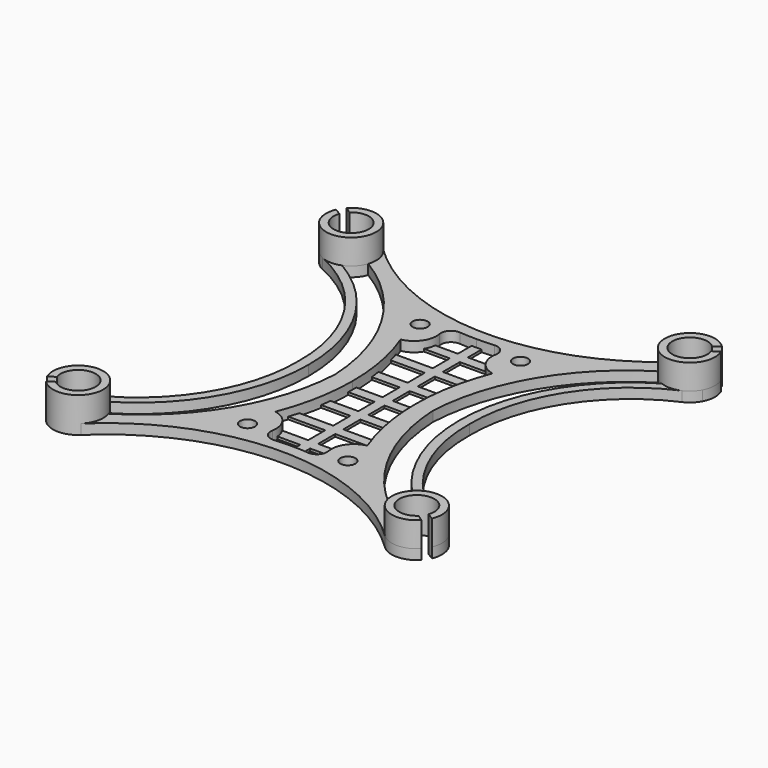
from build123d import *

# Parameters (mm, degrees)
F0_R     = 1.5
F1_DEPTH = 2
F3_DEPTH = 5
F5_DEPTH = 0.5


with BuildPart() as f1:
    # F0 (on Top) → F1 (new body)
    with BuildSketch(Plane.XY):
        with BuildLine():
            ThreePointArc((36.1362213462, -36.559940375), (30.8200680226, -32.0821443671), (37.0405652253, -35.1833631273))
            Line((37.0405652253, -35.1833631273), (38.335108699, -35.9872074577))
            ThreePointArc((38.335108699, -35.9872074577), (38.7399294875, -33.7723085628), (38.131906865, -31.6043681864))
            ThreePointArc((38.131906865, -31.6043681864), (37.1348906898, -30.3281930177), (35.7822836141, -29.4376210591))
            ThreePointArc((35.7822836141, -29.4376210591), (21.9787080555, -17.5374691672), (17.0199291271, 0))
            ThreePointArc((17.0199291271, 0), (21.9787080555, 17.5374691672), (35.7822836141, 29.4376210591))
            ThreePointArc((35.7822836141, 29.4376210591), (37.1348906898, 30.3281930177), (38.131906865, 31.6043681864))
            ThreePointArc((38.131906865, 31.6043681864), (38.7399294875, 33.7723085628), (38.335108699, 35.9872074577))
            Line((38.335108699, 35.9872074577), (37.0405652253, 35.1833631273))
            ThreePointArc((37.0405652253, 35.1833631273), (30.8200680226, 32.0821443671), (36.1362213462, 36.559940375))
            Line((36.1362213462, 36.559940375), (37.386503279, 37.4304769078))
            ThreePointArc((37.386503279, 37.4304769078), (36.0681959172, 38.4315302234), (34.4952946726, 38.9473050928))
            ThreePointArc((34.4952946726, 38.9473050928), (32.2323339096, 38.7694757777), (30.2812013001, 37.6094343042))
            ThreePointArc((30.2812013001, 37.6094343042), (0, 25.4199988055), (-30.2812013001, 37.6094343042))
            ThreePointArc((-30.2812013001, 37.6094343042), (-32.2323339096, 38.7694757777), (-34.4952946726, 38.9473050928))
            ThreePointArc((-34.4952946726, 38.9473050928), (-36.0681959172, 38.4315302234), (-37.386503279, 37.4304769078))
            Line((-37.386503279, 37.4304769078), (-36.1362213462, 36.559940375))
            ThreePointArc((-36.1362213462, 36.559940375), (-30.8200680226, 32.0821443671), (-37.0405652253, 35.1833631273))
            Line((-37.0405652253, 35.1833631273), (-38.335108699, 35.9872074577))
            ThreePointArc((-38.335108699, 35.9872074577), (-38.7399294875, 33.7723085628), (-38.131906865, 31.6043681864))
            ThreePointArc((-38.131906865, 31.6043681864), (-37.1348906898, 30.3281930177), (-35.7822836141, 29.4376210591))
            ThreePointArc((-35.7822836141, 29.4376210591), (-21.9787080555, 17.5374691672), (-17.0199291271, 0))
            ThreePointArc((-17.0199291271, 0), (-21.9787080555, -17.5374691672), (-35.7822836141, -29.4376210591))
            ThreePointArc((-35.7822836141, -29.4376210591), (-36.5451884754, -29.8613402945), (-37.2228016482, -30.4112513837))
            ThreePointArc((-37.2228016482, -30.4112513837), (-38.6486851906, -33.0257332853), (-38.335108699, -35.9872074577))
            Line((-38.335108699, -35.9872074577), (-37.0405652253, -35.1833631273))
            ThreePointArc((-37.0405652253, -35.1833631273), (-30.8200680226, -32.0821443671), (-36.1362213462, -36.559940375))
            Line((-36.1362213462, -36.559940375), (-37.386503279, -37.4304769078))
            ThreePointArc((-37.386503279, -37.4304769078), (-36.0681959172, -38.4315302234), (-34.4952946726, -38.9473050928))
            ThreePointArc((-34.4952946726, -38.9473050928), (-32.2323339096, -38.7694757777), (-30.2812013001, -37.6094343042))
            ThreePointArc((-30.2812013001, -37.6094343042), (0, -25.4199988055), (30.2812013001, -37.6094343042))
            ThreePointArc((30.2812013001, -37.6094343042), (33.8711870431, -39.0022899693), (37.386503279, -37.4304769078))
            Line((37.386503279, -37.4304769078), (36.1362213462, -36.559940375))
        make_face()
        with Locations((-10, -21.5)):
            Circle(F0_R, mode=Mode.SUBTRACT)
        with Locations((10, -21.5)):
            Circle(F0_R, mode=Mode.SUBTRACT)
        with BuildLine():
            ThreePointArc((-29.0361142513, -32.3613765596), (-30.1412105579, -30.5737183061), (-31.883310129, -29.3981125207))
            ThreePointArc((-31.883310129, -29.3981125207), (-19.5218381167, -16.9523146483), (-15.0137450546, 0))
            ThreePointArc((-15.0137450546, 0), (-19.5218381167, 16.9523146483), (-31.883310129, 29.3981125207))
            ThreePointArc((-31.883310129, 29.3981125207), (-30.1412105579, 30.5737183061), (-29.0361142513, 32.3613765596))
            ThreePointArc((-29.0361142513, 32.3613765596), (-15.3681396419, 18.5806411637), (-9.7572598606, 0))
            ThreePointArc((-9.7572598606, 0), (-15.3681396419, -18.5806411637), (-29.0361142513, -32.3613765596))
        make_face(mode=Mode.SUBTRACT)
        with Locations((-10, 21.5)):
            Circle(F0_R, mode=Mode.SUBTRACT)
        with BuildLine():
            ThreePointArc((6.2340141391, 0), (6.9677906394, -7.9264078978), (9.1579371023, -15.5794875776))
            ThreePointArc((9.1579371023, -15.5794875776), (6.2804186946, -17.4672712516), (5.5784125618, -20.8363997407))
            ThreePointArc((5.5784125618, -20.8363997407), (5.1035454005, -22.5419459677), (3.4608975637, -23.2023207381))
            ThreePointArc((3.4608975637, -23.2023207381), (1.7317054483, -23.1020106233), (0, -23.0650818918))
            ThreePointArc((0, -23.0650818918), (-1.7317054483, -23.1020106233), (-3.4608975637, -23.2023207381))
            ThreePointArc((-3.4608975637, -23.2023207381), (-5.1035454005, -22.5419459677), (-5.5784125618, -20.8363997407))
            ThreePointArc((-5.5784125618, -20.8363997407), (-6.2804186946, -17.4672712516), (-9.1579371023, -15.5794875776))
            ThreePointArc((-9.1579371023, -15.5794875776), (-6.9677906394, -7.9264078978), (-6.2340141391, 0))
            ThreePointArc((-6.2340141391, 0), (-6.9677906394, 7.9264078978), (-9.1579371023, 15.5794875776))
            ThreePointArc((-9.1579371023, 15.5794875776), (-6.2804186946, 17.4672712516), (-5.5784125618, 20.8363997407))
            ThreePointArc((-5.5784125618, 20.8363997407), (-5.1035454005, 22.5419459677), (-3.4608975637, 23.2023207381))
            ThreePointArc((-3.4608975637, 23.2023207381), (-1.7317054483, 23.1020106233), (0, 23.0650818918))
            ThreePointArc((0, 23.0650818918), (1.7317054483, 23.1020106233), (3.4608975637, 23.2023207381))
            ThreePointArc((3.4608975637, 23.2023207381), (5.1035454005, 22.5419459677), (5.5784125618, 20.8363997407))
            ThreePointArc((5.5784125618, 20.8363997407), (6.2804186946, 17.4672712516), (9.1579371023, 15.5794875776))
            ThreePointArc((9.1579371023, 15.5794875776), (6.9677906394, 7.9264078978), (6.2340141391, 0))
        make_face(mode=Mode.SUBTRACT)
        with BuildLine():
            ThreePointArc((29.0361142513, -32.3613765596), (15.3681396419, -18.5806411637), (9.7572598606, 0))
            ThreePointArc((9.7572598606, 0), (15.3681396419, 18.5806411637), (29.0361142513, 32.3613765596))
            ThreePointArc((29.0361142513, 32.3613765596), (30.1412105579, 30.5737183061), (31.883310129, 29.3981125207))
            ThreePointArc((31.883310129, 29.3981125207), (19.5218381167, 16.9523146483), (15.0137450546, 0))
            ThreePointArc((15.0137450546, 0), (19.5218381167, -16.9523146483), (31.883310129, -29.3981125207))
            ThreePointArc((31.883310129, -29.3981125207), (30.1412105579, -30.5737183061), (29.0361142513, -32.3613765596))
        make_face(mode=Mode.SUBTRACT)
        with Locations((10, 21.5)):
            Circle(F0_R, mode=Mode.SUBTRACT)
    extrude(amount=F1_DEPTH)

    # F2 (on face) → F3 (join)
    with BuildSketch(Plane.XY.offset(2)):
        with BuildLine():
            ThreePointArc((36.1362213462, -36.559940375), (30.8200680226, -32.0821443671), (37.0405652253, -35.1833631273))
            Line((37.0405652253, -35.1833631273), (38.335108699, -35.9872074577))
            ThreePointArc((38.335108699, -35.9872074577), (29.5669947705, -31.2576395172), (37.386503279, -37.4304769078))
            Line((37.386503279, -37.4304769078), (36.1362213462, -36.559940375))
        make_face()
        with BuildLine():
            Line((-38.335108699, -35.9872074577), (-37.0405652253, -35.1833631273))
            ThreePointArc((-37.0405652253, -35.1833631273), (-30.8200680226, -32.0821443671), (-36.1362213462, -36.559940375))
            Line((-36.1362213462, -36.559940375), (-37.386503279, -37.4304769078))
            ThreePointArc((-37.386503279, -37.4304769078), (-29.5669947705, -31.2576395172), (-38.335108699, -35.9872074577))
        make_face()
        with BuildLine():
            Line((38.335108699, 35.9872074577), (37.0405652253, 35.1833631273))
            ThreePointArc((37.0405652253, 35.1833631273), (30.8200680226, 32.0821443671), (36.1362213462, 36.559940375))
            Line((36.1362213462, 36.559940375), (37.386503279, 37.4304769078))
            ThreePointArc((37.386503279, 37.4304769078), (29.5669947705, 31.2576395172), (38.335108699, 35.9872074577))
        make_face()
        with BuildLine():
            ThreePointArc((-36.1362213462, 36.559940375), (-30.8200680226, 32.0821443671), (-37.0405652253, 35.1833631273))
            Line((-37.0405652253, 35.1833631273), (-38.335108699, 35.9872074577))
            ThreePointArc((-38.335108699, 35.9872074577), (-29.5669947705, 31.2576395172), (-37.386503279, 37.4304769078))
            Line((-37.386503279, 37.4304769078), (-36.1362213462, 36.559940375))
        make_face()
    extrude(amount=F3_DEPTH)

    # F4 (on Top) → F5 (join)
    with BuildSketch(Plane.XY):
        with BuildLine():
            ThreePointArc((-6.2425413409, 0.8932368908), (-6.2359453306, 0.4466407115), (-6.2340141391, 0))
            ThreePointArc((-6.2340141391, 0), (-6.2370980805, -0.5534246834), (-6.247343932, -1.1067631092))
            Line((-6.247343932, -1.1067631092), (-1, -1.1067631092))
            Line((-1, -1.1067631092), (-1, -5.1432368908))
            Line((-1, -5.1432368908), (-6.5397809971, -5.1432368908))
            ThreePointArc((-6.5397809971, -5.1432368908), (-6.6722429852, -6.1449415252), (-6.8283349965, -7.1432368908))
            Line((-6.8283349965, -7.1432368908), (-1, -7.1432368908))
            Line((-1, -7.1432368908), (-1, -11.3932368908))
            Line((-1, -11.3932368908), (-7.7690571819, -11.3932368908))
            ThreePointArc((-7.7690571819, -11.3932368908), (-8.0587217563, -12.3969244354), (-8.372816876, -13.3932368908))
            Line((-8.372816876, -13.3932368908), (-1, -13.3932368908))
            Line((-1, -13.3932368908), (-1, -17.6432368908))
            Line((-1, -17.6432368908), (-6.1665071218, -17.6432368908))
            ThreePointArc((-6.1665071218, -17.6432368908), (-5.7218221001, -18.6045811178), (-5.5141645055, -19.6432368908))
            Line((-5.5141645055, -19.6432368908), (-1, -19.6432368908))
            Line((-1, -19.6432368908), (-1, -23.0786654874))
            ThreePointArc((-1, -23.0786654874), (-0.5000359033, -23.069230553), (0, -23.0650818918))
            ThreePointArc((0, -23.0650818918), (0.5000359033, -23.069230553), (1, -23.0786654874))
            Line((1, -23.0786654874), (1, -19.6432368908))
            Line((1, -19.6432368908), (5.5141645055, -19.6432368908))
            ThreePointArc((5.5141645055, -19.6432368908), (5.7218221001, -18.6045811178), (6.1665071218, -17.6432368908))
            Line((6.1665071218, -17.6432368908), (1, -17.6432368908))
            Line((1, -17.6432368908), (1, -13.3932368908))
            Line((1, -13.3932368908), (8.372816876, -13.3932368908))
            ThreePointArc((8.372816876, -13.3932368908), (8.0587217563, -12.3969244354), (7.7690571819, -11.3932368908))
            Line((7.7690571819, -11.3932368908), (1, -11.3932368908))
            Line((1, -11.3932368908), (1, -7.1432368908))
            Line((1, -7.1432368908), (6.8283349965, -7.1432368908))
            ThreePointArc((6.8283349965, -7.1432368908), (6.6722429852, -6.1449415252), (6.5397809971, -5.1432368908))
            Line((6.5397809971, -5.1432368908), (1, -5.1432368908))
            Line((1, -5.1432368908), (1, -1.1067631092))
            Line((1, -1.1067631092), (6.247343932, -1.1067631092))
            ThreePointArc((6.247343932, -1.1067631092), (6.2370980805, -0.5534246834), (6.2340141391, 0))
            ThreePointArc((6.2340141391, 0), (6.2359453306, 0.4466407115), (6.2425413409, 0.8932368908))
            Line((6.2425413409, 0.8932368908), (1, 0.8932368908))
            Line((1, 0.8932368908), (1, 5.1432368908))
            Line((1, 5.1432368908), (6.5397809971, 5.1432368908))
            ThreePointArc((6.5397809971, 5.1432368908), (6.6722429852, 6.1449415252), (6.8283349965, 7.1432368908))
            Line((6.8283349965, 7.1432368908), (1, 7.1432368908))
            Line((1, 7.1432368908), (1, 11.3932368908))
            Line((1, 11.3932368908), (7.7690571819, 11.3932368908))
            ThreePointArc((7.7690571819, 11.3932368908), (8.0587217563, 12.3969244354), (8.372816876, 13.3932368908))
            Line((8.372816876, 13.3932368908), (1, 13.3932368908))
            Line((1, 13.3932368908), (1, 17.6432368908))
            Line((1, 17.6432368908), (6.1665071218, 17.6432368908))
            ThreePointArc((6.1665071218, 17.6432368908), (5.7218221001, 18.6045811178), (5.5141645055, 19.6432368908))
            Line((5.5141645055, 19.6432368908), (1, 19.6432368908))
            Line((1, 19.6432368908), (1, 23.0786654874))
            ThreePointArc((1, 23.0786654874), (0.5000359033, 23.069230553), (0, 23.0650818918))
            ThreePointArc((0, 23.0650818918), (-0.5000359033, 23.069230553), (-1, 23.0786654874))
            Line((-1, 23.0786654874), (-1, 19.6432368908))
            Line((-1, 19.6432368908), (-5.5141645055, 19.6432368908))
            ThreePointArc((-5.5141645055, 19.6432368908), (-5.7218221001, 18.6045811178), (-6.1665071218, 17.6432368908))
            Line((-6.1665071218, 17.6432368908), (-1, 17.6432368908))
            Line((-1, 17.6432368908), (-1, 13.3932368908))
            Line((-1, 13.3932368908), (-8.372816876, 13.3932368908))
            ThreePointArc((-8.372816876, 13.3932368908), (-8.0587217563, 12.3969244354), (-7.7690571819, 11.3932368908))
            Line((-7.7690571819, 11.3932368908), (-1, 11.3932368908))
            Line((-1, 11.3932368908), (-1, 7.1432368908))
            Line((-1, 7.1432368908), (-6.8283349965, 7.1432368908))
            ThreePointArc((-6.8283349965, 7.1432368908), (-6.6722429852, 6.1449415252), (-6.5397809971, 5.1432368908))
            Line((-6.5397809971, 5.1432368908), (-1, 5.1432368908))
            Line((-1, 5.1432368908), (-1, 0.8932368908))
            Line((-1, 0.8932368908), (-6.2425413409, 0.8932368908))
        make_face()
    extrude(amount=F5_DEPTH)


solid = f1.part
